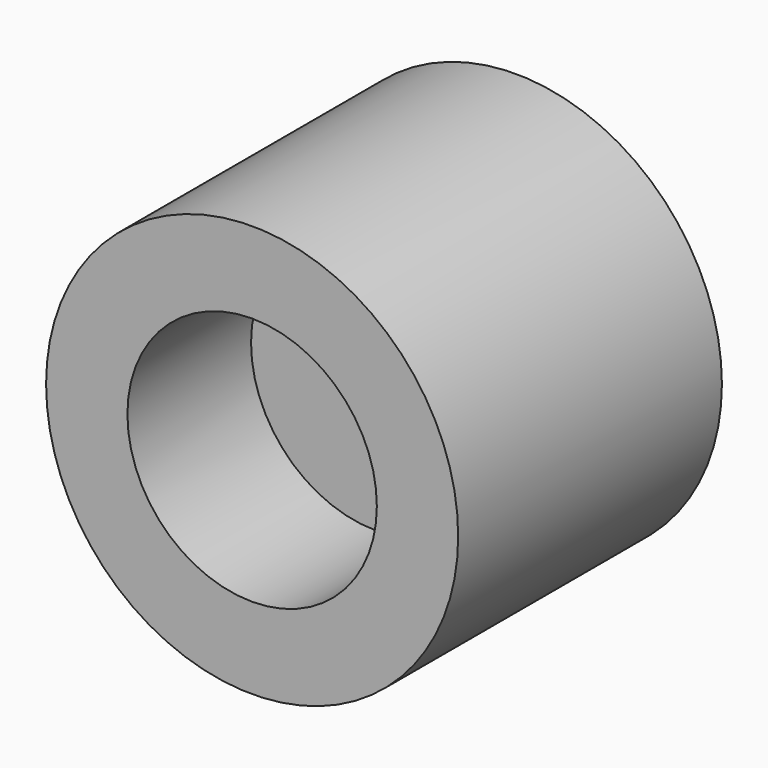
from build123d import *

# Parameters (mm, degrees)
F0_R     = 127
F1_DEPTH = 203.2
F2_R     = 76.870137
F3_DEPTH = 95.25
F4_R     = 74.972923
F5_DEPTH = 95.25


with BuildPart() as f1:
    # F0 (on Front) → F1 (new body)
    with BuildSketch(Plane.XZ):
        Circle(F0_R)
    extrude(amount=-F1_DEPTH)

    # F2 (on face) → F3 (cut)
    with BuildSketch(Plane.XZ):
        Circle(F2_R)
    extrude(amount=-F3_DEPTH, mode=Mode.SUBTRACT)

    # F4 (on face) → F5 (cut)
    with BuildSketch(Plane(origin=(0, 203.2, 0), x_dir=(-1, 0, 0), z_dir=(0, 1, 0))):
        Circle(F4_R)
    extrude(amount=-F5_DEPTH, mode=Mode.SUBTRACT)


solid = f1.part
